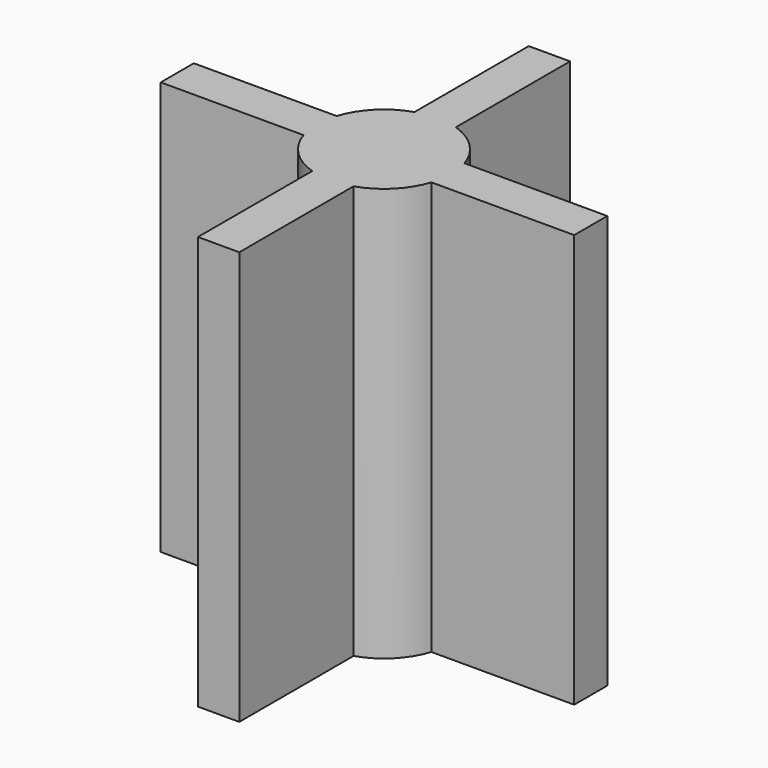
from build123d import *

# Parameters (mm, degrees)
F1_DEPTH = 101.6


with BuildPart() as f1:
    # F0 (on Top) → F1 (new body)
    with BuildSketch(Plane.XY):
        with BuildLine():
            Line((5.08, 50.8), (-5.08, 50.8))
            Line((-5.08, 50.8), (-5.08, 15.709032))
            ThreePointArc((-5.08, 15.709032), (-11.674333, 11.674333), (-15.709032, 5.08))
            Line((-15.709032, 5.08), (-50.8, 5.08))
            Line((-50.8, 5.08), (-50.8, -5.08))
            Line((-50.8, -5.08), (-15.709032, -5.08))
            ThreePointArc((-15.709032, -5.08), (-11.674333, -11.674333), (-5.08, -15.709032))
            Line((-5.08, -15.709032), (-5.08, -50.8))
            Line((-5.08, -50.8), (5.08, -50.8))
            Line((5.08, -50.8), (5.08, -15.709032))
            ThreePointArc((5.08, -15.709032), (11.674333, -11.674333), (15.709032, -5.08))
            Line((15.709032, -5.08), (50.8, -5.08))
            Line((50.8, -5.08), (50.8, 5.08))
            Line((50.8, 5.08), (15.709032, 5.08))
            ThreePointArc((15.709032, 5.08), (11.674333, 11.674333), (5.08, 15.709032))
            Line((5.08, 15.709032), (5.08, 50.8))
        make_face()
    extrude(amount=F1_DEPTH)


solid = f1.part
